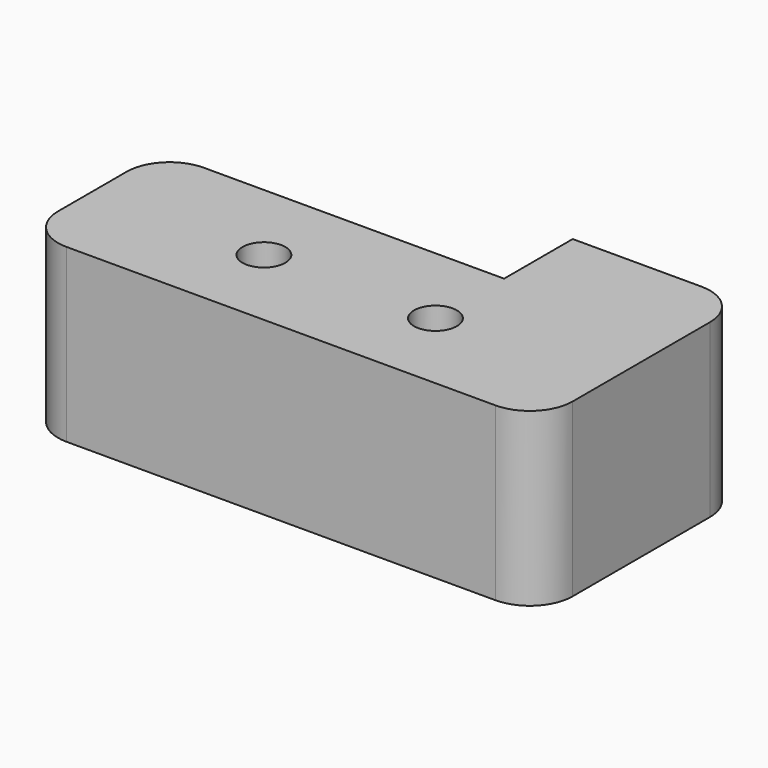
from build123d import *

# Parameters (mm, degrees)
F1_DEPTH = 50.8
F2_R     = 12.7
F4_D     = 12.7


with BuildPart() as f1:
    # F0 (on Top) → F1 (new body)
    with BuildSketch(Plane.XY):
        Polygon((0, 50.8), (0, 0), (152.4, 0), (152.4, 76.2), (101.6, 76.2), (101.6, 50.8), align=None)
    extrude(amount=F1_DEPTH)

    # F2
    f2_edges = [f1.edges().sort_by_distance(p)[0] for p in [
        (152.4, 76.2, 25.4),
        (152.4, 0, 25.4),
        (50.8, 50.8, 0),
        (0, 50.8, 25.4),
        (0, 0, 25.4),
    ]]
    fillet(f2_edges, radius=F2_R)

    # F4 (through all)
    with Locations(Plane.XY.offset(50.8)):
        with Locations((50.8, 25.4), (101.6, 25.4)):
            Hole(F4_D / 2)


solid = f1.part
